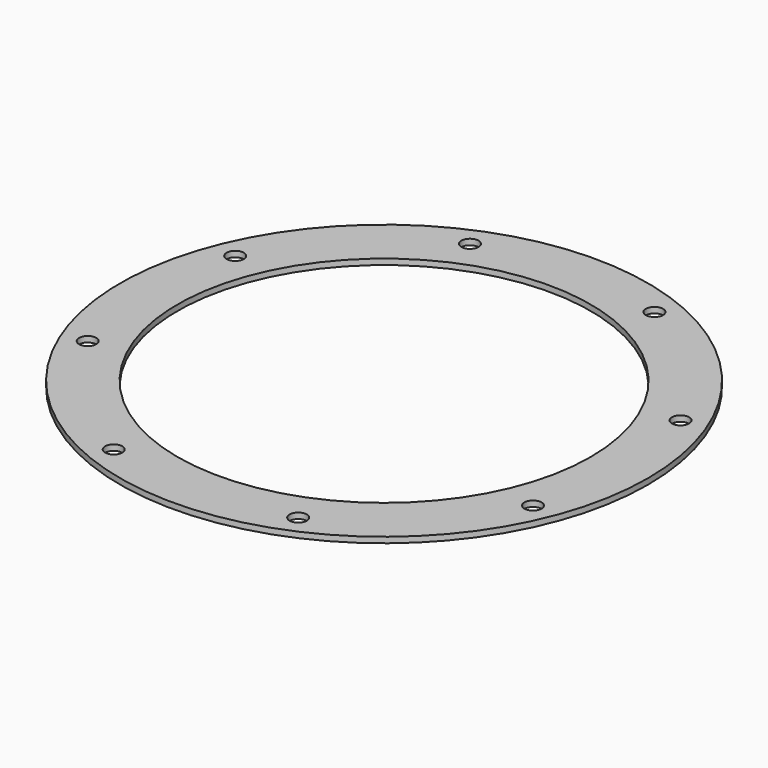
from build123d import *

# Parameters (mm, degrees)
CYLINDER1213_R               = 1.5
CYLINDER1213_DEPTH           = 12
CYLINDER1213_PLACEMENT_ANGLE = 45
CYLINDER1210_R               = 1.5
CYLINDER1210_DEPTH           = 12
CYLINDER1211_R               = 1.5
CYLINDER1211_DEPTH           = 12
CYLINDER1211_PLACEMENT_ANGLE = 135
CYLINDER1216_R               = 1.5
CYLINDER1216_DEPTH           = 12
CYLINDER1209_R               = 1.5
CYLINDER1209_DEPTH           = 12
CYLINDER1209_PLACEMENT_ANGLE = 225
CYLINDER1215_R               = 1.5
CYLINDER1215_DEPTH           = 12
CYLINDER1212_R               = 1.5
CYLINDER1212_DEPTH           = 12
CYLINDER1212_PLACEMENT_ANGLE = 45
CYLINDER1214_R               = 1.5
CYLINDER1214_DEPTH           = 12
COMPOUND902_PLACEMENT_ANGLE  = 22.5
TUBE112_R                    = 46
TUBE112_R_2                  = 36
TUBE112_DEPTH                = 1


with BuildPart() as obj1:
    # Cylinder1213 → Cylinder1213 (new body)
    with BuildSketch(Plane.XY):
        Circle(CYLINDER1213_R)
    extrude(amount=CYLINDER1213_DEPTH)


with BuildPart() as obj1_1:
    # Cylinder1213 placement: moved
    add(obj1.part.moved(Location((29.698485, -29.698485, 33.5))).rotate(Axis((29.698485, -29.698485, 33.5), (0, 0, 1)), CYLINDER1213_PLACEMENT_ANGLE))


with BuildPart() as obj2:
    # Cylinder1210 → Cylinder1210 (new body)
    with BuildSketch(Plane(origin=(42, 0, 33.5), x_dir=(0, 1, 0), z_dir=(0, 0, 1))):
        Circle(CYLINDER1210_R)
    extrude(amount=CYLINDER1210_DEPTH)


with BuildPart() as obj3:
    # Cylinder1211 → Cylinder1211 (new body)
    with BuildSketch(Plane.XY):
        Circle(CYLINDER1211_R)
    extrude(amount=CYLINDER1211_DEPTH)


with BuildPart() as obj3_1:
    # Cylinder1211 placement: moved
    add(obj3.part.moved(Location((29.698485, 29.698485, 33.5))).rotate(Axis((29.698485, 29.698485, 33.5), (0, 0, 1)), CYLINDER1211_PLACEMENT_ANGLE))


with BuildPart() as obj4:
    # Cylinder1216 → Cylinder1216 (new body)
    with BuildSketch(Plane(origin=(0, 42, 33.5), x_dir=(-1, 0, 0), z_dir=(0, 0, 1))):
        Circle(CYLINDER1216_R)
    extrude(amount=CYLINDER1216_DEPTH)


with BuildPart() as obj5:
    # Cylinder1209 → Cylinder1209 (new body)
    with BuildSketch(Plane.XY):
        Circle(CYLINDER1209_R)
    extrude(amount=CYLINDER1209_DEPTH)


with BuildPart() as obj5_1:
    # Cylinder1209 placement: moved
    add(obj5.part.moved(Location((-29.698485, 29.698485, 33.5))).rotate(Axis((-29.698485, 29.698485, 33.5), (0, 0, 1)), CYLINDER1209_PLACEMENT_ANGLE))


with BuildPart() as obj6:
    # Cylinder1215 → Cylinder1215 (new body)
    with BuildSketch(Plane(origin=(-42, 0, 33.5), x_dir=(0, -1, 0), z_dir=(0, 0, 1))):
        Circle(CYLINDER1215_R)
    extrude(amount=CYLINDER1215_DEPTH)


with BuildPart() as obj7:
    # Cylinder1212 → Cylinder1212 (new body)
    with BuildSketch(Plane.XY):
        Circle(CYLINDER1212_R)
    extrude(amount=CYLINDER1212_DEPTH)


with BuildPart() as obj7_1:
    # Cylinder1212 placement: moved
    add(obj7.part.moved(Location((-29.698485, -29.698485, 33.5))).rotate(Axis((-29.698485, -29.698485, 33.5), (0, 0, -1)), CYLINDER1212_PLACEMENT_ANGLE))


with BuildPart() as compound902:
    # Cylinder1214 → Cylinder1214 (new body)
    with BuildSketch(Plane(origin=(0, -42, 33.5), x_dir=(1, 0, 0), z_dir=(0, 0, 1))):
        Circle(CYLINDER1214_R)
    extrude(amount=CYLINDER1214_DEPTH)

    # Compound902: union obj1, obj2, obj3, obj4, obj5, obj6, obj7
    add(obj1_1.part)
    add(obj2.part)
    add(obj3_1.part)
    add(obj4.part)
    add(obj5_1.part)
    add(obj6.part)
    add(obj7_1.part)


with BuildPart() as compound902_1:
    # Compound902 placement: moved
    add(compound902.part.moved(Location((0, 0, 4))).rotate(Axis((0, 0, 4), (0, 0, 1)), COMPOUND902_PLACEMENT_ANGLE))


with BuildPart() as cut457:
    # Tube112 → Tube112 (new body)
    with BuildSketch(Plane.XY.offset(45)):
        Circle(TUBE112_R)
        Circle(TUBE112_R_2, mode=Mode.SUBTRACT)
    extrude(amount=TUBE112_DEPTH)

    # Cut457: cut Compound902
    add(compound902_1.part, mode=Mode.SUBTRACT)


solid = cut457.part
